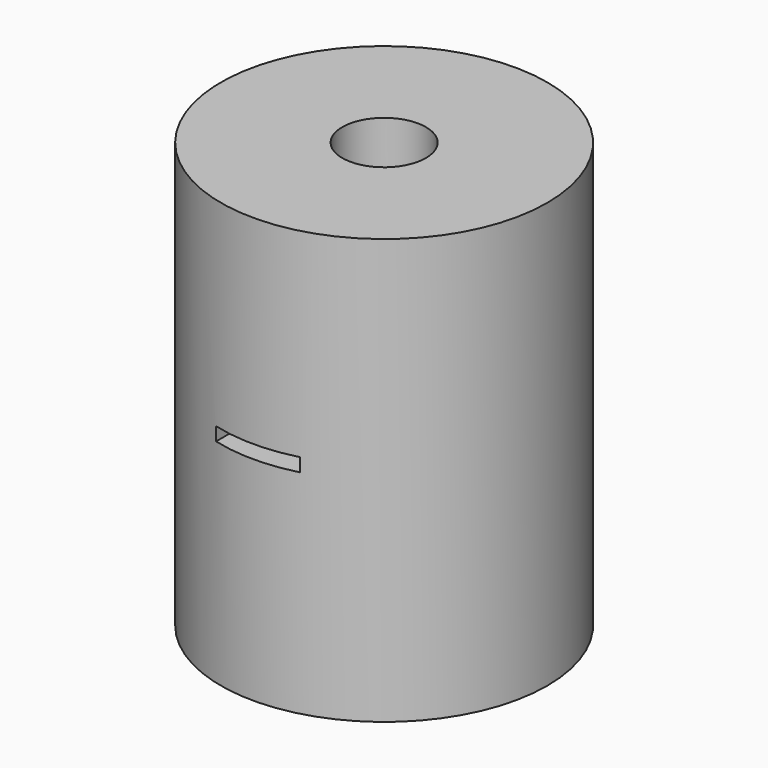
from build123d import *

# Parameters (mm, degrees)
F0_R     = 9.75
F0_R_2   = 2.5
F1_DEPTH = 25.4
F2_W     = 5
F2_H     = 0.8
F3_DEPTH = 12.7


with BuildPart() as f1:
    # F0 (on Top) → F1 (new body)
    with BuildSketch(Plane.XY):
        Circle(F0_R)
        Circle(F0_R_2, mode=Mode.SUBTRACT)
    extrude(amount=F1_DEPTH)

    # F2 (on Front) → F3 (cut, symmetric)
    with BuildSketch(Plane.XZ):
        with Locations((0, 13.1)):
            Rectangle(F2_W, F2_H)
    extrude(amount=F3_DEPTH, both=True, mode=Mode.SUBTRACT)


solid = f1.part
